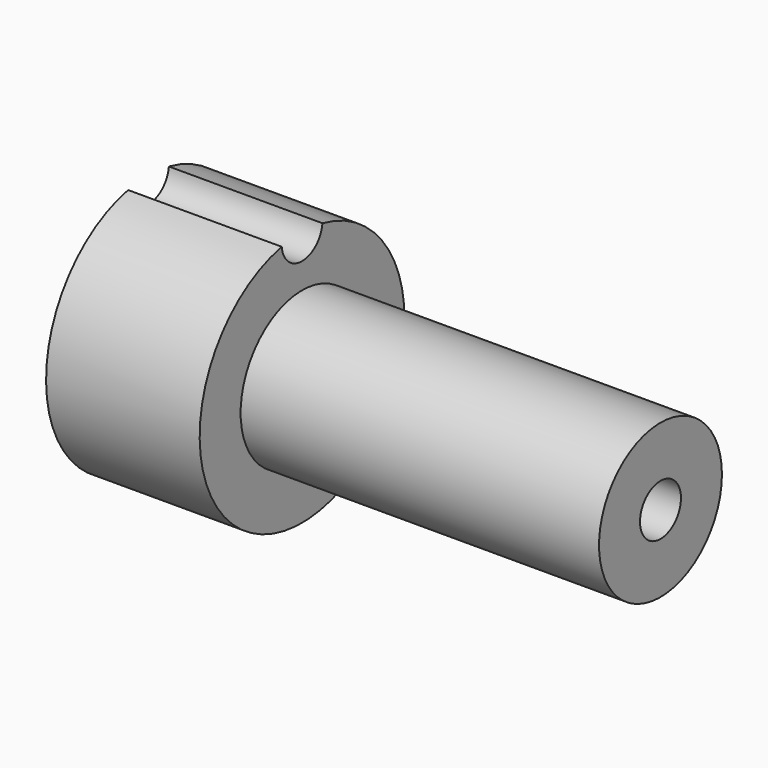
from build123d import *

# Parameters (mm, degrees)
F0_W     = 7
F0_H     = 1.5
F2_R     = 0.5
F3_DEPTH = 10
F5_DEPTH = 3


with BuildPart() as f1:
    # F0 (on Top) → F1 (revolve)
    with BuildSketch(Plane.XY):
        Polygon((0, 1.5), (0, 0), (3, 0), (3, 1.5), (3, 2.5), (0, 2.5), align=None)
        with Locations((6.5, 0.75)):
            Rectangle(F0_W, F0_H)
    revolve(axis=Axis((5, 0, 0), (1, 0, 0)))

    # F2 (on face) → F3 (cut)
    with BuildSketch(Plane.YZ.offset(10)):
        Circle(F2_R)
    extrude(amount=-F3_DEPTH, mode=Mode.SUBTRACT)

    # F4 (on face) → F5 (cut)
    with BuildSketch(Plane(origin=(0, 0, 0), x_dir=(0, -1, 0), z_dir=(-1, 0, 0))):
        with BuildLine():
            ThreePointArc((0.4974937186, 2.45), (0, 2.5), (-0.4974937186, 2.45))
            ThreePointArc((-0.4974937186, 2.45), (0, 2), (0.4974937186, 2.45))
        make_face()
    extrude(amount=-F5_DEPTH, mode=Mode.SUBTRACT)


solid = f1.part
